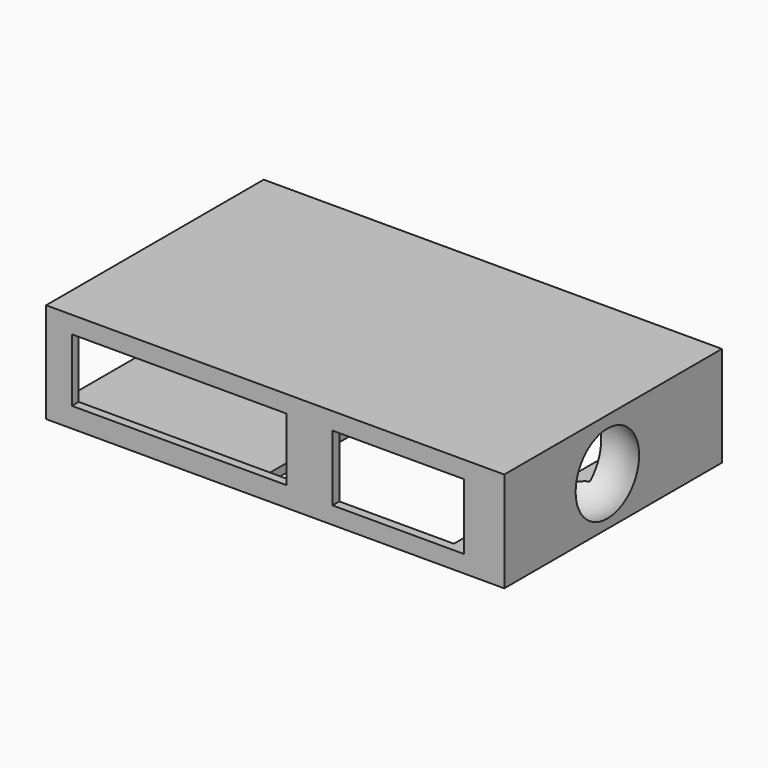
from build123d import *

# Parameters (mm, degrees)
BOX005_W     = 14
BOX005_H     = 89
BOX005_DEPTH = 10
BOX004_W     = 46
BOX004_H     = 130
BOX004_DEPTH = 23
BOX003_W     = 66
BOX003_H     = 87
BOX003_DEPTH = 10
BOX002_W     = 140
BOX002_H     = 89
BOX002_DEPTH = 29
BOX001_W     = 75
BOX001_H     = 150
BOX001_DEPTH = 22
BOX_W        = 160
BOX_H        = 95
BOX_DEPTH    = 35


with BuildPart() as cubo005:
    # Box005 → Box005 (new body)
    with BuildSketch(Plane(origin=(132, 3, 22), x_dir=(1, 0, 0), z_dir=(0, 0, 1))):
        with Locations((7, 44.5)):
            Rectangle(BOX005_W, BOX005_H)
    extrude(amount=BOX005_DEPTH)


with BuildPart() as cubo004:
    # Box004 → Box004 (new body)
    with BuildSketch(Plane(origin=(100, -4, 6), x_dir=(1, 0, 0), z_dir=(0, 0, 1))):
        with Locations((23, 65)):
            Rectangle(BOX004_W, BOX004_H)
    extrude(amount=BOX004_DEPTH)


with BuildPart() as cubo003:
    # Box003 → Box003 (new body)
    with BuildSketch(Plane(origin=(71, 4, 0), x_dir=(1, 0, 0), z_dir=(0, 0, 1))):
        with Locations((33, 43.5)):
            Rectangle(BOX003_W, BOX003_H)
    extrude(amount=BOX003_DEPTH)


with BuildPart() as esfera:
    # Sphere → Sphere (revolve)
    with BuildSketch(Plane(origin=(152, 45, 17), x_dir=(1, 0, 0), z_dir=(0, -1, 0))):
        with BuildLine():
            ThreePointArc((0, -16), (16, 0), (0, 16))
            Line((0, 16), (0, -16))
        make_face()
    revolve(axis=Axis((152, 45, 17), (0, 0, 1)))


with BuildPart() as cubo002:
    # Box002 → Box002 (new body)
    with BuildSketch(Plane(origin=(0, 3, 3), x_dir=(1, 0, 0), z_dir=(0, 0, 1))):
        with Locations((70, 44.5)):
            Rectangle(BOX002_W, BOX002_H)
    extrude(amount=BOX002_DEPTH)


with BuildPart() as cubo001:
    # Box001 → Box001 (new body)
    with BuildSketch(Plane(origin=(9, 0, 7), x_dir=(1, 0, 0), z_dir=(0, 0, 1))):
        with Locations((37.5, 75)):
            Rectangle(BOX001_W, BOX001_H)
    extrude(amount=BOX001_DEPTH)


with BuildPart() as cut005:
    # Box → Box (new body)
    with BuildSketch(Plane.XY):
        with Locations((80, 47.5)):
            Rectangle(BOX_W, BOX_H)
    extrude(amount=BOX_DEPTH)

    # Cut: cut Cubo001
    add(cubo001.part, mode=Mode.SUBTRACT)

    # Cut001: cut Cubo002
    add(cubo002.part, mode=Mode.SUBTRACT)

    # Cut002: cut Esfera
    add(esfera.part, mode=Mode.SUBTRACT)

    # Cut003: cut Cubo003
    add(cubo003.part, mode=Mode.SUBTRACT)

    # Cut004: cut Cubo004
    add(cubo004.part, mode=Mode.SUBTRACT)

    # Cut005: cut Cubo005
    add(cubo005.part, mode=Mode.SUBTRACT)


solid = cut005.part
